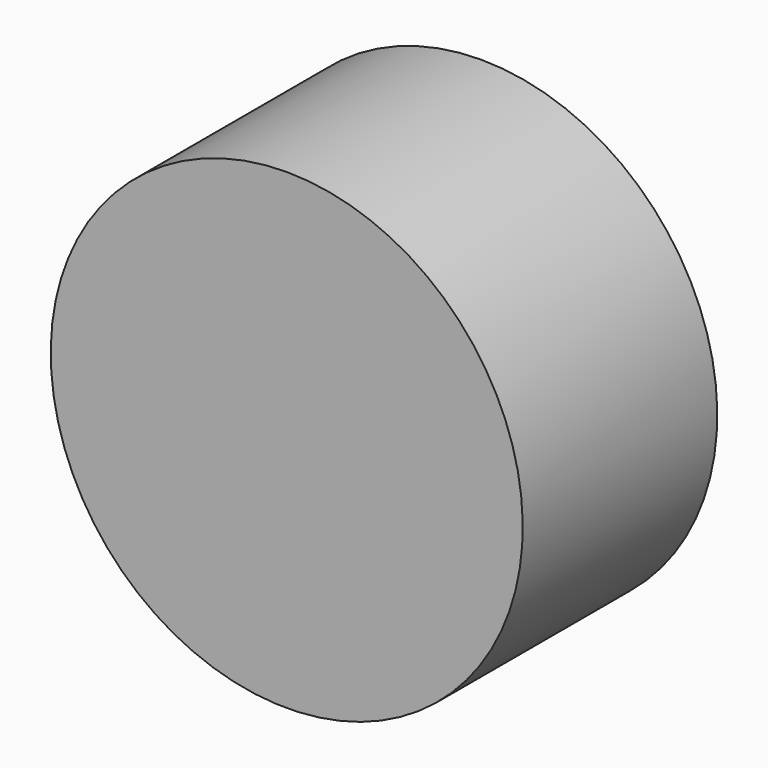
from build123d import *


with BuildPart() as f1:
    # F0 (on Right) → F1 (revolve)
    with BuildSketch(Plane.YZ):
        Polygon((0, 3.739063), (0, 1.5), (10.023491, 1.5), (10.023491, 5.989837), (7.291159, 5.989837), (7.291159, 3.739063), align=None)
        Polygon((0, 1.5), (0, 0), (17, 0), (17, 16.5), (0, 16.5), (0, 3.739063), (7.291159, 3.739063), (7.291159, 5.989837), (10.023491, 5.989837), (10.023491, 1.5), align=None)
    revolve(axis=Axis((0, 8.5, 0), (0, -1, 0)))


solid = f1.part
